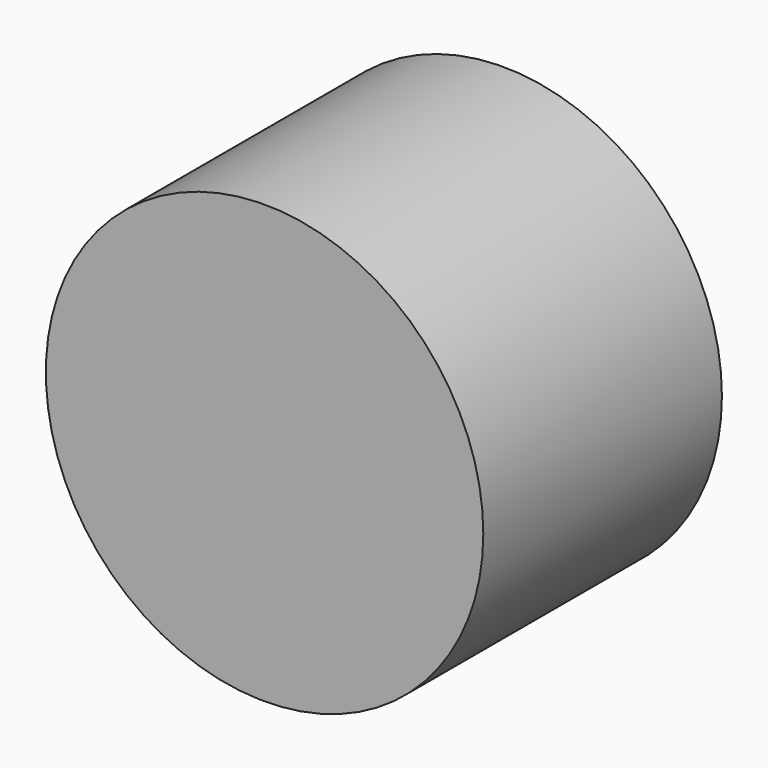
from build123d import *

# Parameters (mm, degrees)
F0_R     = 11
F1_DEPTH = 15
F2_R     = 4.5
F3_DEPTH = 2
F4_R     = 1.6
F5_DEPTH = 5


with BuildPart() as f1:
    # F0 (on Front) → F1 (new body)
    with BuildSketch(Plane.XZ):
        Circle(F0_R)
    extrude(amount=F1_DEPTH)

    # F2 (on face) → F3 (join)
    with BuildSketch(Plane(origin=(0, 0, 0), x_dir=(-1, 0, 0), z_dir=(0, 1, 0))):
        Circle(F2_R)
    extrude(amount=F3_DEPTH)

    # F4 (on face) → F5 (cut)
    with BuildSketch(Plane(origin=(0, 2, 0), x_dir=(-1, 0, 0), z_dir=(0, 1, 0))):
        Circle(F4_R)
    extrude(amount=-F5_DEPTH, mode=Mode.SUBTRACT)


solid = f1.part
